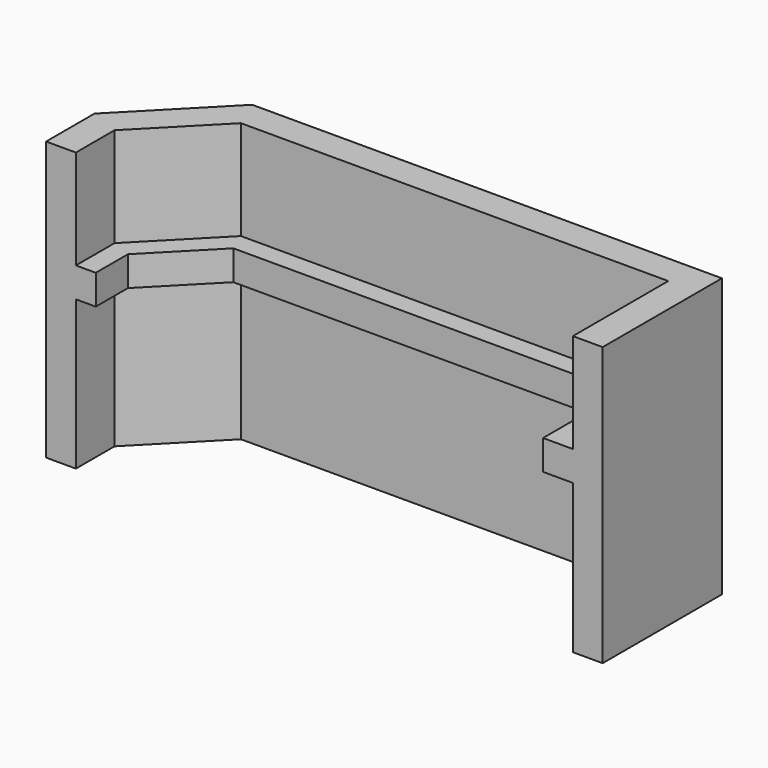
from build123d import *

# Parameters (mm, degrees)
PAD_DEPTH         = 3
PAD001_DEPTH      = 10
PAD001_DEPTH_BACK = 18
POCKET_DEPTH      = 5


with BuildPart() as part:
    # Sketch → Pad (new body)
    with BuildSketch(Plane.XY):
        Polygon((-43, 12), (0, 12), (0, 0), (-50, 0), (-50, 4.858572), align=None)
    extrude(amount=PAD_DEPTH)

    # Sketch001 (on Face7 of Pad) → Pad001 (join, two sides)
    with BuildSketch(Plane.XY.offset(3)) as pad001_sk:
        Polygon((-50, 0), (-53, 0), (-53, 6.083674), (-44.260252, 15), (0, 15), (3, 15), (3, 0), (0, 0), (0, 12), (-43, 12), (-50, 4.858572), align=None)
    extrude(amount=PAD001_DEPTH)
    extrude(pad001_sk.sketch, amount=-PAD001_DEPTH_BACK)

    # Sketch002 (on Face18 of Pad001) → Pocket (cut)
    with BuildSketch(Plane.XY.offset(3)):
        Polygon((-48, 0), (-48, 4.041837), (-42.159832, 10), (-3, 10), (-3, 0), align=None)
    extrude(amount=-POCKET_DEPTH, mode=Mode.SUBTRACT)


solid = part.part
